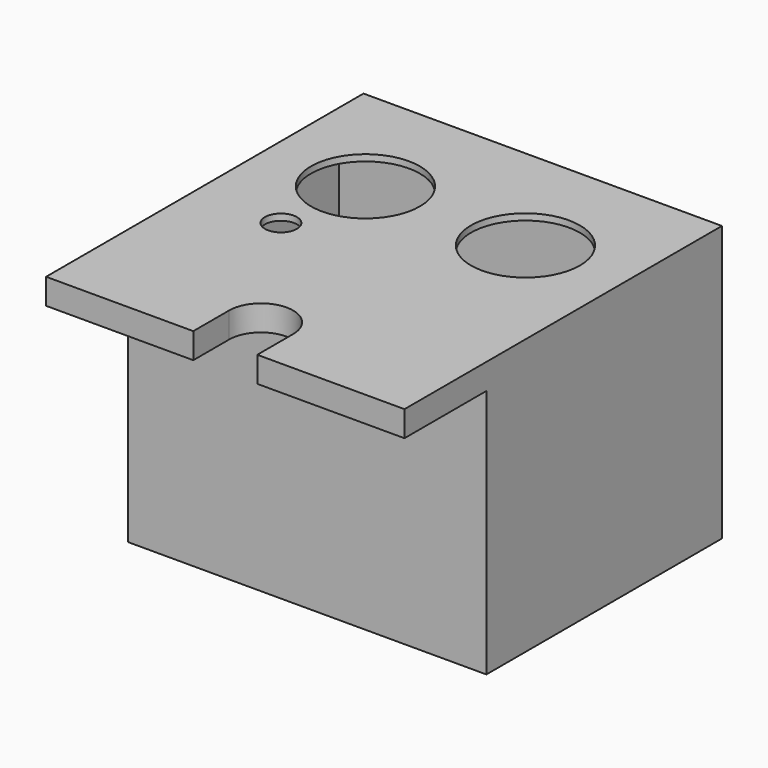
from build123d import *

# Parameters (mm, degrees)
SKETCH_R        = 8.5
SKETCH_R_2      = 2.5
PAD_DEPTH       = 43
SKETCH004_W     = 56
SKETCH004_H     = 16
SKETCH004_W_2   = 54
SKETCH004_H_2   = 35
POCKET_DEPTH    = 39
SKETCH006_W     = 54
SKETCH006_H     = 31
POCKET004_DEPTH = 3


with BuildPart() as part:
    # Sketch → Pad (new body)
    with BuildSketch(Plane.XY):
        with BuildLine():
            Line((56, 0), (56, 62))
            Line((56, 62), (0, 62))
            Line((0, 62), (0, 0))
            Line((0, 0), (23, 0))
            Line((23, 0), (23, 7))
            ThreePointArc((33, 7), (28, 12), (23, 7))
            Line((33, 0), (33, 7))
            Line((33, 0), (56, 0))
        make_face()
        with Locations((15.5, 43)):
            Circle(SKETCH_R, mode=Mode.SUBTRACT)
        with Locations((40.5, 43)):
            Circle(SKETCH_R, mode=Mode.SUBTRACT)
        with Locations((13.5, 29)):
            Circle(SKETCH_R_2, mode=Mode.SUBTRACT)
    extrude(amount=PAD_DEPTH)

    # Sketch004 (on Face12 of Pad) → Pocket (cut)
    with BuildSketch(Plane(origin=(0, 0, 0), x_dir=(1, 0, 0), z_dir=(0, 0, -1))):
        with Locations((28, -8)):
            Rectangle(SKETCH004_W, SKETCH004_H)
        with Locations((28, -38.5)):
            Rectangle(SKETCH004_W_2, SKETCH004_H_2)
    extrude(amount=-POCKET_DEPTH, mode=Mode.SUBTRACT)

    # Sketch006 (on Face20 of Pocket) → Pocket004 (cut)
    with BuildSketch(Plane(origin=(0, 0, 39), x_dir=(1, 0, 0), z_dir=(0, 0, -1))):
        with Locations((28, -40.5)):
            Rectangle(SKETCH006_W, SKETCH006_H)
    extrude(amount=-POCKET004_DEPTH, mode=Mode.SUBTRACT)


solid = part.part
